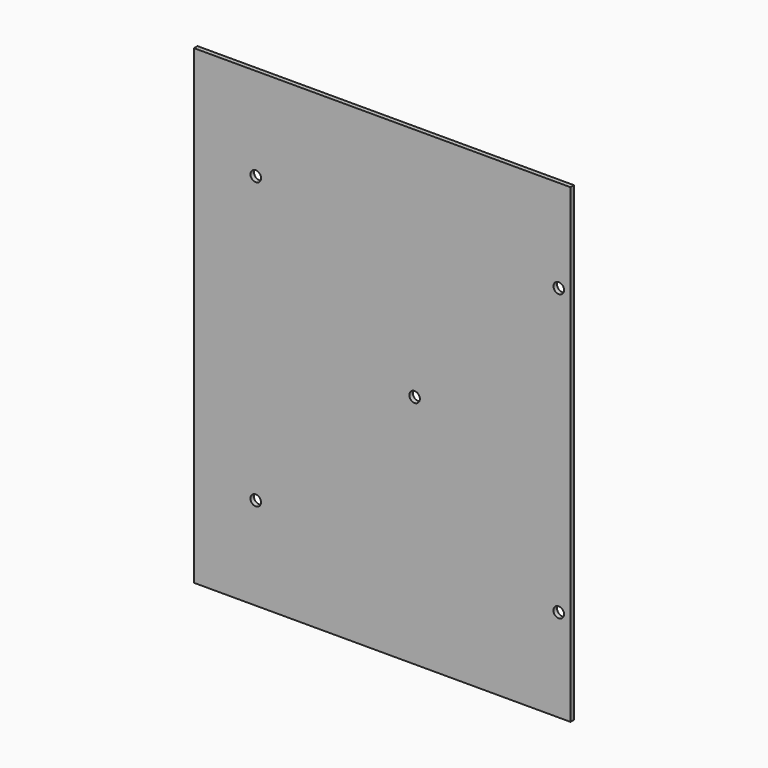
from build123d import *

# Parameters (mm, degrees)
F0_W     = 812.8
F0_H     = 1016
F1_DEPTH = 9.525
F3_D     = 22.86


with BuildPart() as f1:
    # F0 (on Front) → F1 (new body)
    with BuildSketch(Plane.XZ):
        with Locations((-372.5117605865, 477.9083641171)):
            Rectangle(F0_W, F0_H)
    extrude(amount=F1_DEPTH)

    # F3 (through all)
    with Locations(Plane(origin=(0, 0, 0), x_dir=(1, 0, 0), z_dir=(0, 1, 0))):
        with Locations((-645.5617605865, -785.8833641171), (8.4882394135, -785.8833641171), (-302.6617605865, -477.9083641171), (8.4882394135, -169.9333641171), (-645.5617605865, -169.9333641171)):
            Hole(F3_D / 2)


solid = f1.part
